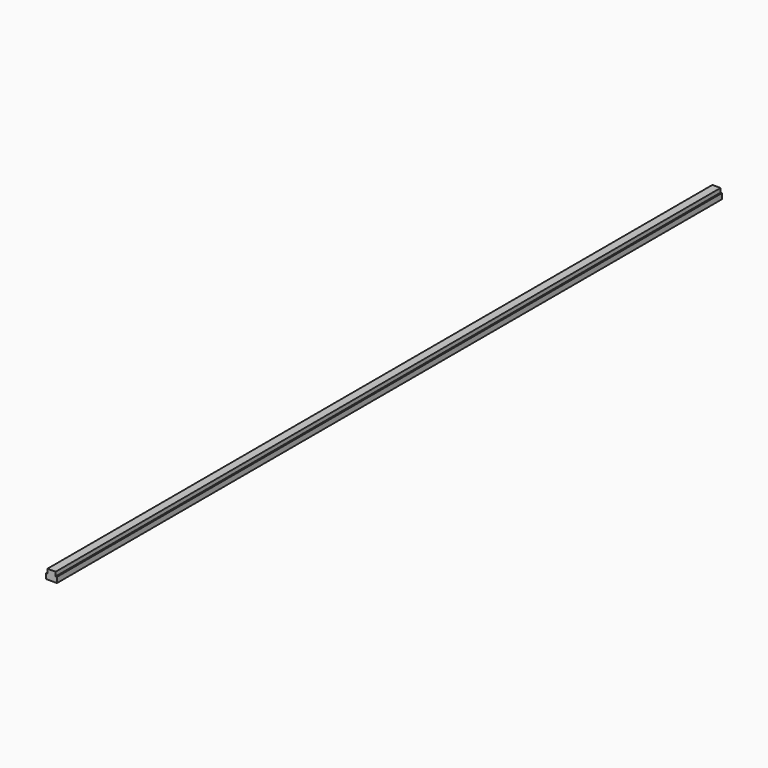
from build123d import *

# Parameters (mm, degrees)
F1_DEPTH = 304.8


with BuildPart() as f1:
    # F0 (on Front) → F1 (new body)
    with BuildSketch(Plane.XZ):
        Polygon((-2, -2), (0, -2), (0, 0), (0, 1.5), (-1.5, 1.5), (-1.5, 0), (-2, 0), align=None)
        Polygon((2, -2), (2, 0), (1.5, 0), (1.5, 1.5), (0, 1.5), (0, 0), (0, -2), align=None)
    extrude(amount=-F1_DEPTH)


solid = f1.part
